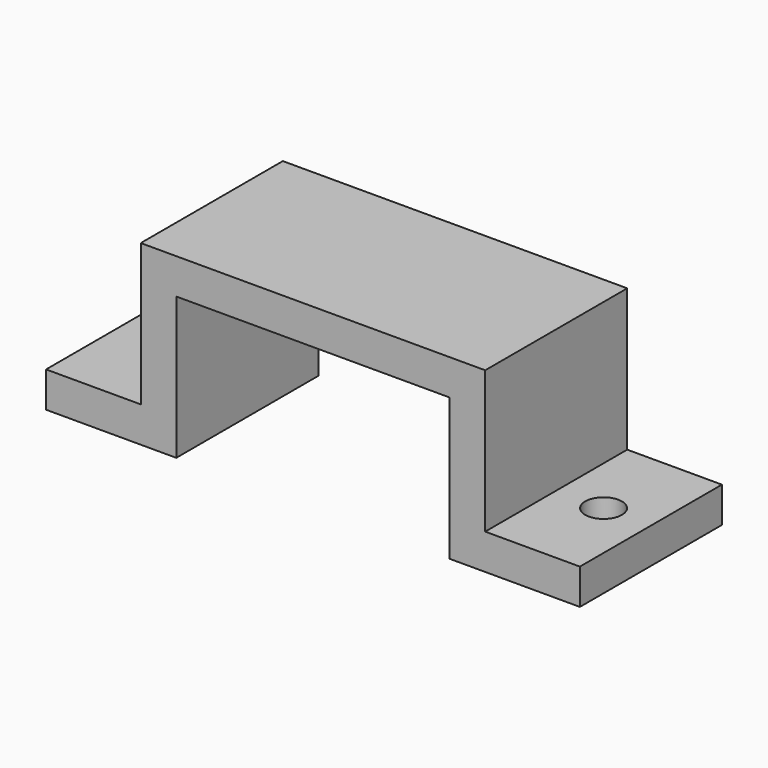
from build123d import *

# Parameters (mm, degrees)
F1_DEPTH = 15
F2_R     = 1.55
F3_DEPTH = 3.001


with BuildPart() as f1:
    # F0 (on Front) → F1 (new body)
    with BuildSketch(Plane.XZ):
        Polygon((-11.55, 12), (0, 12), (11.55, 12), (11.55, 0), (22.55, 0), (22.55, 3), (14.55, 3), (14.55, 15), (0, 15), (-11.55, 15), (-14.55, 15), (-14.55, 12), (-14.55, 3), (-22.55, 3), (-22.55, 0), (-14.55, 0), (-11.55, 0), (-11.55, 3), align=None)
    extrude(amount=F1_DEPTH)

    # F2 (on face) → F3 (cut, through all)
    with BuildSketch(Plane.XY.offset(3)):
        with Locations((-18.55, -7.5)):
            Circle(F2_R)
        with Locations((18.55, -7.5)):
            Circle(F2_R)
    extrude(amount=-F3_DEPTH, mode=Mode.SUBTRACT)


solid = f1.part
